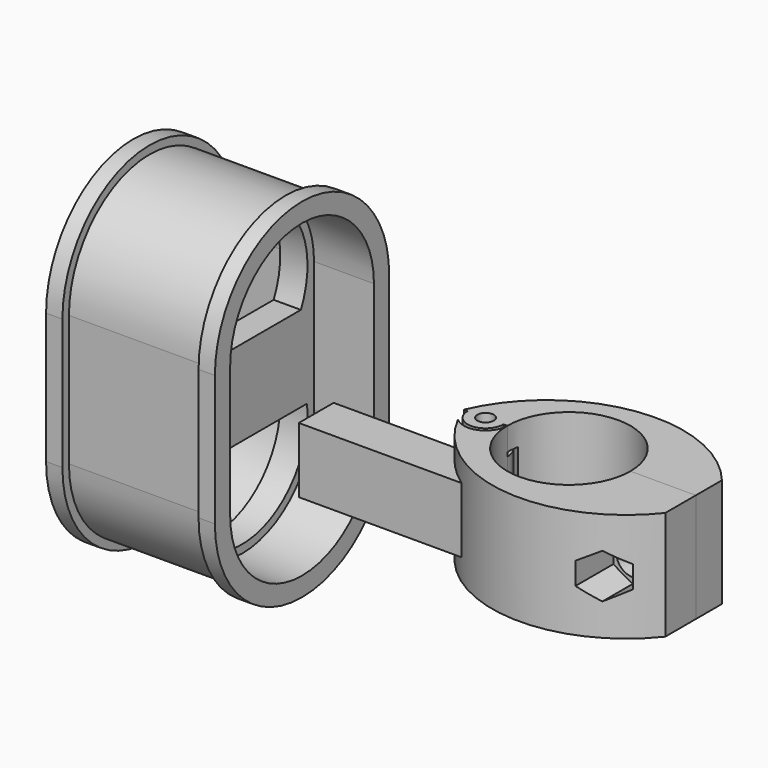
from build123d import *

# Parameters (mm, degrees)
SKETCH_R        = 1.5
PAD_DEPTH       = 10
SKETCH001_R     = 4
POCKET_DEPTH    = 5
SKETCH002_R     = 4
POCKET001_DEPTH = 5
POCKET002_DEPTH = 25
SKETCH004_R     = 3
POCKET003_DEPTH = 15
PAD001_DEPTH    = 6
SKETCH006_R     = 1.5
PAD002_DEPTH    = 10
SKETCH007_R     = 4.5
POCKET004_DEPTH = 5.75
SKETCH008_R     = 3
POCKET005_DEPTH = 15
SKETCH009_R     = 3.8
POCKET006_DEPTH = 20
PAD003_DEPTH    = 3
PAD004_DEPTH    = 25
PAD005_DEPTH    = 3
SKETCH013_W     = 8.5
SKETCH013_H     = 12.5
PAD006_DEPTH    = 5


with BuildPart() as obj1:
    # Sketch → Pad (new body, symmetric)
    with BuildSketch(Plane.XY):
        with BuildLine():
            ThreePointArc((-11.3, 0), (0, -11.3), (11.3, 0))
            Line((11.3, 0), (23.3, 0))
            Line((23.3, 0), (23.3, -7))
            ThreePointArc((-19.3, 0), (-0.06232, -16.050688), (23.3, -7))
            ThreePointArc((-11.3, 0), (-15.3, 4), (-19.3, 0))
        make_face()
        with Locations((-15.3, 0)):
            Circle(SKETCH_R, mode=Mode.SUBTRACT)
    extrude(amount=PAD_DEPTH, both=True)

    # Sketch001 → Pocket (cut)
    with BuildSketch(Plane.XY.offset(10)):
        with Locations((-15.3, 0)):
            Circle(SKETCH001_R)
    extrude(amount=-POCKET_DEPTH, mode=Mode.SUBTRACT)

    # Sketch002 → Pocket001 (cut)
    with BuildSketch(Plane.XY.offset(-10)):
        with Locations((-15.3, 0)):
            Circle(SKETCH002_R)
    extrude(amount=POCKET001_DEPTH, mode=Mode.SUBTRACT)

    # Sketch003 → Pocket002 (cut)
    with BuildSketch(Plane.XZ.offset(6)):
        Polygon((12.949296, -2.05), (16.5, -4.1), (20.050704, -2.05), (20.050704, 2.05), (16.5, 4.1), (12.949296, 2.05), align=None)
    extrude(amount=POCKET002_DEPTH, mode=Mode.SUBTRACT)

    # Sketch004 → Pocket003 (cut)
    with BuildSketch(Plane.XZ):
        with Locations((16.5, 0)):
            Circle(SKETCH004_R)
    extrude(amount=POCKET003_DEPTH, mode=Mode.SUBTRACT)

    # Sketch005 → Pad001 (join, symmetric)
    with BuildSketch(Plane.XY):
        Polygon((-10, -12), (-40, -12), (-40, -4), (-15, -4), align=None)
    extrude(amount=PAD001_DEPTH, both=True)


with BuildPart() as obj2:
    # Sketch006 → Pad002 (new body, symmetric)
    with BuildSketch(Plane.XY):
        with BuildLine():
            ThreePointArc((11.3, 0), (0, 11.3), (-11.3, 0))
            Line((-11.3, 0), (-12, 0))
            ThreePointArc((-18.6, 0), (-15.3, -3.3), (-12, 0))
            Line((-18.6, 0), (-19.3, 0))
            ThreePointArc((23.3, 6), (0.308936, 15.006556), (-19.3, 0))
            Line((23.3, 0), (23.3, 6))
            Line((11.3, 0), (23.3, 0))
        make_face()
        with Locations((-15.3, 0)):
            Circle(SKETCH006_R, mode=Mode.SUBTRACT)
    extrude(amount=PAD002_DEPTH, both=True)

    # Sketch007 → Pocket004 (cut, symmetric)
    with BuildSketch(Plane.XY):
        with Locations((-15, 0)):
            Circle(SKETCH007_R)
    extrude(amount=POCKET004_DEPTH, both=True, mode=Mode.SUBTRACT)

    # Sketch008 → Pocket005 (cut)
    with BuildSketch(Plane.XZ):
        with Locations((16.5, 0)):
            Circle(SKETCH008_R)
    extrude(amount=-POCKET005_DEPTH, mode=Mode.SUBTRACT)

    # Sketch009 → Pocket006 (cut)
    with BuildSketch(Plane.XZ.offset(-5)):
        with Locations((16.5, 0)):
            Circle(SKETCH009_R)
    extrude(amount=-POCKET006_DEPTH, mode=Mode.SUBTRACT)


with BuildPart() as obj3:
    # Sketch010 → Pad003 (new body)
    with BuildSketch(Plane.YZ.offset(-70)):
        with BuildLine():
            ThreePointArc((-20, -10), (0, -30), (20, -10))
            Line((20, -10), (20, 14))
            ThreePointArc((20, 14), (0, 34), (-20, 14))
            Line((-20, 14), (-20, -10))
        make_face()
        with BuildLine():
            ThreePointArc((-16.5, -10), (0, -26.5), (16.5, -10))
            Line((16.5, -10), (16.5, 14))
            ThreePointArc((16.5, 14), (0, 30.5), (-16.5, 14))
            Line((-16.5, 14), (-16.5, -10))
        make_face(mode=Mode.SUBTRACT)
    extrude(amount=PAD003_DEPTH)

    # Sketch011 → Pad004 (join)
    with BuildSketch(Plane.YZ.offset(-67)):
        with BuildLine():
            ThreePointArc((-18.5, -10), (0, -28.5), (18.5, -10))
            Line((18.5, -10), (18.5, 14))
            ThreePointArc((18.5, 14), (0, 32.5), (-18.5, 14))
            Line((-18.5, 14), (-18.5, -10))
        make_face()
        with BuildLine():
            ThreePointArc((-16.5, -10), (0, -26.5), (16.5, -10))
            Line((16.5, -10), (16.5, 14))
            ThreePointArc((16.5, 14), (0, 30.5), (-16.5, 14))
            Line((-16.5, 14), (-16.5, -10))
        make_face(mode=Mode.SUBTRACT)
    extrude(amount=PAD004_DEPTH)

    # Sketch012 → Pad005 (join)
    with BuildSketch(Plane.YZ.offset(-42)):
        with BuildLine():
            ThreePointArc((-20, -10), (0, -30), (20, -10))
            Line((20, -10), (20, 14))
            ThreePointArc((20, 14), (0, 34), (-20, 14))
            Line((-20, 14), (-20, -10))
        make_face()
        with BuildLine():
            ThreePointArc((-16.5, -10), (0, -26.5), (16.5, -10))
            Line((16.5, -10), (16.5, 14))
            ThreePointArc((16.5, 14), (0, 30.5), (-16.5, 14))
            Line((-16.5, 14), (-16.5, -10))
        make_face(mode=Mode.SUBTRACT)
    extrude(amount=PAD005_DEPTH)

    # Sketch013 → Pad006 (join)
    with BuildSketch(Plane.YZ.offset(-50)):
        with BuildLine():
            ThreePointArc((-16.5, -10), (0, -26.5), (16.5, -10))
            Line((16.5, -10), (16.5, 14))
            ThreePointArc((16.5, 14), (0, 30.5), (-16.5, 14))
            Line((-16.5, 14), (-16.5, -10))
        make_face()
        with Locations((-7.05, -0.45)):
            Rectangle(SKETCH013_W, SKETCH013_H, mode=Mode.SUBTRACT)
        with BuildLine():
            Line((-14.904545, -8.310465), (14.904545, -8.310465))
            ThreePointArc((-14.904545, -8.310465), (0, -25), (14.904545, -8.310465))
        make_face(mode=Mode.SUBTRACT)
        with BuildLine():
            ThreePointArc((13.477908, 7.416232), (0, 29), (-13.477908, 7.416232))
            Line((-13.477908, 7.416232), (13.477908, 7.416232))
        make_face(mode=Mode.SUBTRACT)
    extrude(amount=-PAD006_DEPTH)


with BuildPart() as obj3_1:
    # Body002 placement: moved
    add(obj3.part.moved(Location((-10, 0, 0))))


solid = Compound([obj1.part, obj2.part, obj3_1.part])
